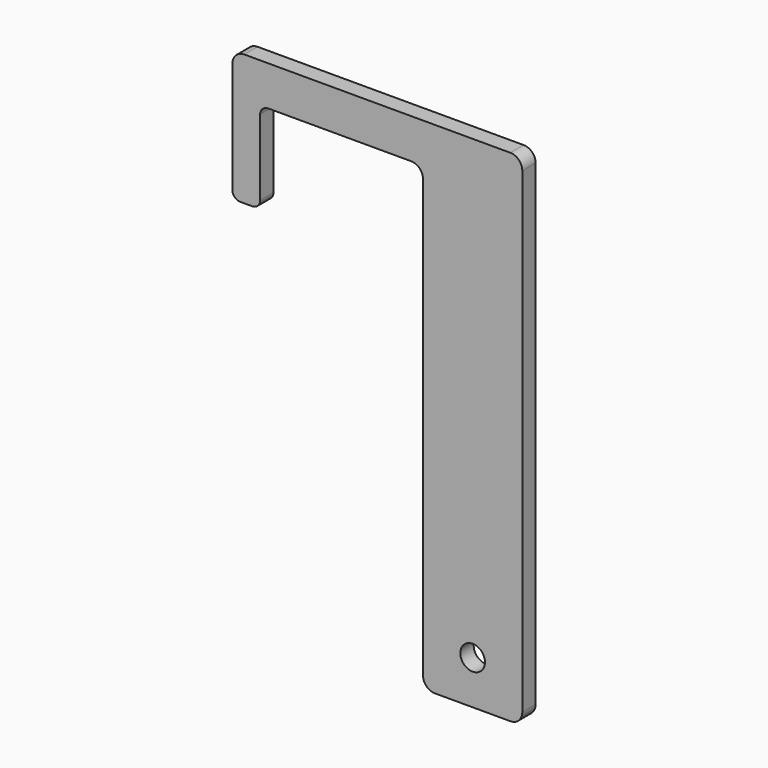
from build123d import *

# Parameters (mm, degrees)
F0_R     = 3.1
F1_DEPTH = 4.2


with BuildPart() as f1:
    # F0 (on Front) → F1 (new body)
    with BuildSketch(Plane.XZ):
        with BuildLine():
            ThreePointArc((-2, 0), (-0.585786, 0.585786), (0, 2))
            Line((0, 2), (0, 21))
            ThreePointArc((0, 21), (0.585786, 22.414214), (2, 23))
            Line((2, 23), (38, 23))
            ThreePointArc((38, 23), (40.12132, 22.12132), (41, 20))
            Line((41, 20), (41, -90))
            ThreePointArc((41, -90), (41.87868, -92.12132), (44, -93))
            Line((44, -93), (63, -93))
            ThreePointArc((63, -93), (65.12132, -92.12132), (66, -90))
            Line((66, -90), (66, 30))
            ThreePointArc((66, 30), (65.12132, 32.12132), (63, 33))
            Line((63, 33), (-4, 33))
            ThreePointArc((-4, 33), (-6.12132, 32.12132), (-7, 30))
            Line((-7, 30), (-7, 2))
            ThreePointArc((-7, 2), (-6.414214, 0.585786), (-5, 0))
            Line((-5, 0), (-2, 0))
        make_face()
        with Locations((53.5, -82)):
            Circle(F0_R, mode=Mode.SUBTRACT)
    extrude(amount=F1_DEPTH)


solid = f1.part
